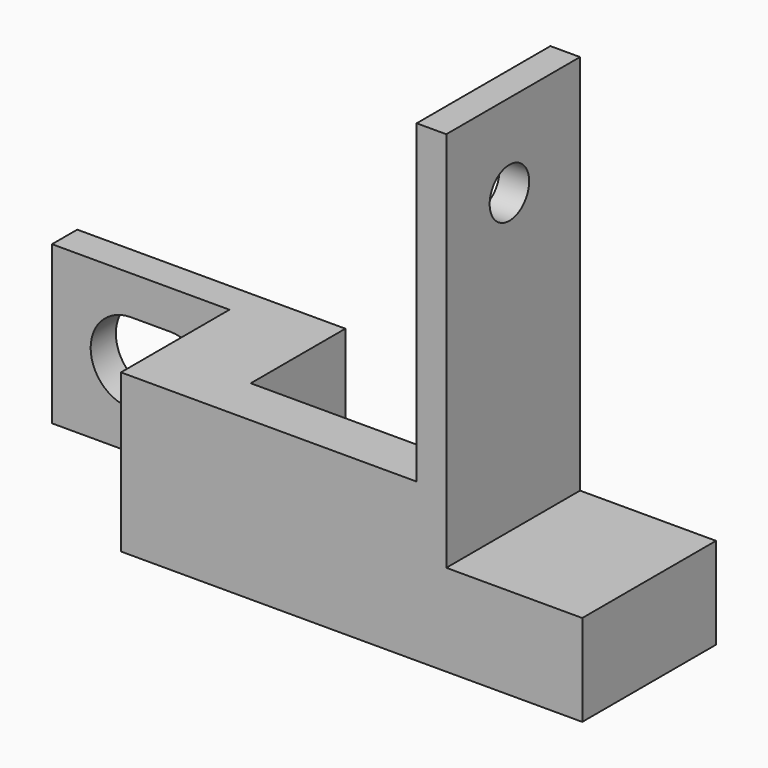
from build123d import *

# Parameters (mm, degrees)
F1_DEPTH  = 25.4
F3_DEPTH  = 127
F4_W      = 4.7752
F4_H      = 26.924
F5_DEPTH  = 50.8
F6_R      = 3.9751
F7_DEPTH  = 25.4
F8_W      = 26.924
F8_H      = 57.4802
F9_DEPTH  = 25.4
F10_W     = 21.8948
F10_H     = 26.924
F11_DEPTH = 3.9878


with BuildPart() as f1:
    # F0 (on Top) → F1 (new body)
    with BuildSketch(Plane.XY):
        Polygon((-74.295, 0), (0, 0), (0, 26.924), (-26.67, 26.924), (-26.67, 7.874), (-59.69, 7.874), (-59.69, 26.924), (-102.87, 26.924), (-102.87, 21.844), (-74.295, 21.844), align=None)
    extrude(amount=F1_DEPTH)

    # F2 (on face) → F3 (cut)
    with BuildSketch(Plane(origin=(0, 26.924, 0), x_dir=(-1, 0, 0), z_dir=(0, 1, 0))):
        with BuildLine():
            Line((90.17, 19.177), (90.17, 6.223))
            ThreePointArc((90.17, 6.223), (96.647, 12.7), (90.17, 19.177))
        make_face()
        with BuildLine():
            Line((83.82, 6.223), (90.17, 6.223))
            Line((90.17, 6.223), (90.17, 19.177))
            Line((90.17, 19.177), (83.82, 19.177))
            ThreePointArc((83.82, 19.177), (77.343, 12.7), (83.82, 6.223))
        make_face()
    extrude(amount=-F3_DEPTH, mode=Mode.SUBTRACT)

    # F4 (on face) → F5 (join)
    with BuildSketch(Plane.XY.offset(25.4)):
        with Locations((-24.2824, 13.462)):
            Rectangle(F4_W, F4_H)
    extrude(amount=F5_DEPTH)

    # F6 (on face) → F7 (cut)
    with BuildSketch(Plane(origin=(-26.67, 0, 0), x_dir=(0, -1, 0), z_dir=(-1, 0, 0))):
        with Locations((-12.7, 62.738)):
            Circle(F6_R)
    extrude(amount=-F7_DEPTH, mode=Mode.SUBTRACT)

    # F8 (on face) → F9 (cut)
    with BuildSketch(Plane.YZ.offset(-21.8948)):
        with Locations((13.462, 47.4599)):
            Rectangle(F8_W, F8_H)
    extrude(amount=F9_DEPTH, mode=Mode.SUBTRACT)

    # F10 (on face) → F11 (cut)
    with BuildSketch(Plane.XY.offset(18.7198)):
        with Locations((-10.9474, 13.462)):
            Rectangle(F10_W, F10_H)
    extrude(amount=-F11_DEPTH, mode=Mode.SUBTRACT)


solid = f1.part
